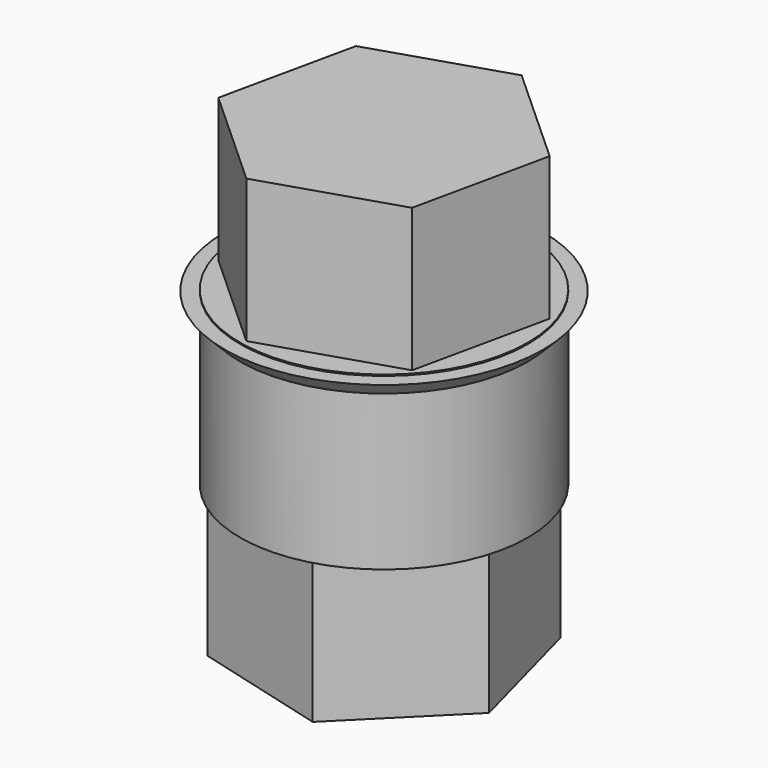
from build123d import *

# Parameters (mm, degrees)
SKETCH_R     = 5.03
PAD_DEPTH    = 6
PAD001_DEPTH = 5
PAD002_DEPTH = 5


with BuildPart() as part:
    # Sketch → Pad (new body)
    with BuildSketch(Plane.XY):
        Circle(SKETCH_R)
    extrude(amount=PAD_DEPTH)

    # Sketch001 → Revolution (revolve)
    with BuildSketch(Plane.XZ):
        Polygon((4.824, 5.954), (5.562116, 5.954), (4.824, 5.204), align=None)
    revolve(axis=Axis((0, 0, 0), (0, 0, 1)))

    # Sketch002 (on Face6 of Revolution) → Pad001 (join)
    with BuildSketch(Plane.XY.offset(6)):
        Polygon((3.583031, -3.253843), (4.609426, 1.476074), (1.026395, 4.729917), (-3.583031, 3.253843), (-4.609426, -1.476074), (-1.026395, -4.729917), align=None)
    extrude(amount=PAD001_DEPTH)

    # Sketch003 (on Face2 of Pad001) → Pad002 (join)
    with BuildSketch(Plane(origin=(0, 0, 0), x_dir=(1, 0, 0), z_dir=(0, 0, -1))):
        Polygon((3.424679, -3.420114), (4.674245, 1.255802), (1.249566, 4.675915), (-3.424679, 3.420114), (-4.674245, -1.255802), (-1.249566, -4.675915), align=None)
    extrude(amount=PAD002_DEPTH)


solid = part.part
